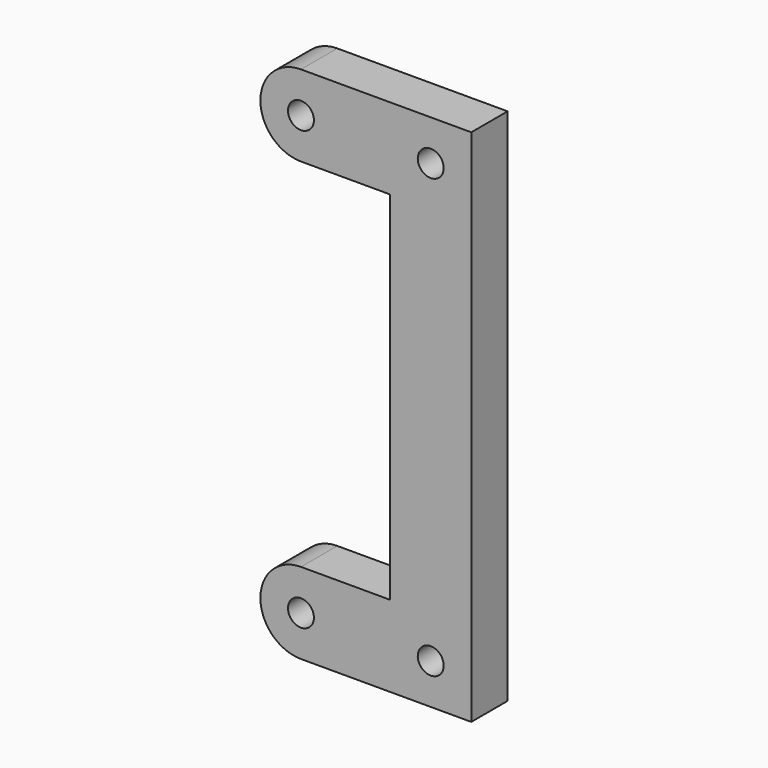
from build123d import *

# Parameters (mm, degrees)
F1_DEPTH = 7
F2_D     = 4


with BuildPart() as f1:
    # F0 (on Front) → F1 (new body)
    with BuildSketch(Plane.XZ):
        with BuildLine():
            Line((4.413146, 27.5), (4.413146, -27.5))
            Line((4.413146, -27.5), (-9.336854, -27.5))
            ThreePointArc((-9.336854, -27.5), (-15.586854, -33.75), (-9.336854, -40))
            Line((-9.336854, -40), (16.913146, -40))
            Line((16.913146, -40), (16.913146, 40))
            Line((16.913146, 40), (-9.336854, 40))
            ThreePointArc((-9.336854, 40), (-15.586854, 33.75), (-9.336854, 27.5))
            Line((-9.336854, 27.5), (4.413146, 27.5))
        make_face()
    extrude(amount=F1_DEPTH)

    # F2 (through all)
    with Locations(Plane(origin=(0, 0, 0), x_dir=(1, 0, 0), z_dir=(0, 1, 0))):
        with Locations((-9.336854, 33.75), (10.663146, 33.75), (-9.336854, -33.75), (10.663146, -33.75)):
            Hole(F2_D / 2)


solid = f1.part
